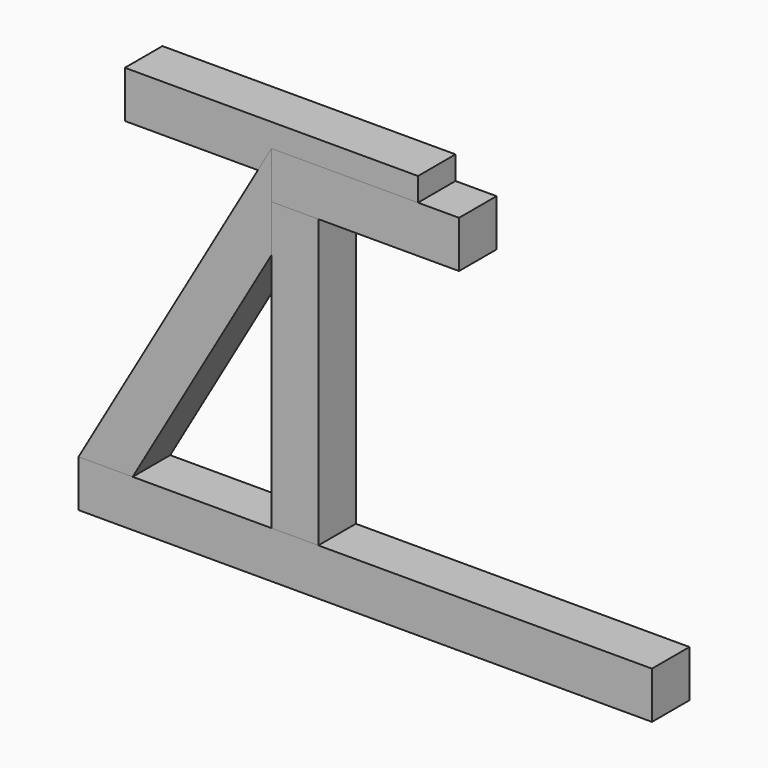
from build123d import *

# Parameters (mm, degrees)
F0_W     = 500
F0_H     = 80
F1_DEPTH = 80
F3_DEPTH = 80
F4_DEPTH = 80
F5_DEPTH = 80
F6_DEPTH = 80


with BuildPart() as f1:
    # F0 (on Front) → F1 (new body)
    with BuildSketch(Plane.XZ):
        Rectangle(F0_W, F0_H)
    extrude(amount=F1_DEPTH)


with BuildPart() as f3:
    # F2 (on Front) → F3 (new body)
    with BuildSketch(Plane.XZ):
        Polygon((-236.71361, -570), (-329.089653, -570), (-329.089653, -650), (649.089653, -650), (649.089653, -570), (556.71361, -570), (320, -570), (240, -570), (80, -570), (0, -570), align=None)
    extrude(amount=F3_DEPTH)


with BuildPart() as f4:
    # F2 (on Front) → F4 (new body)
    with BuildSketch(Plane.XZ):
        Polygon((320, 0), (0, 0), (0, -80), (80, -80), (240, -80), (320, -80), align=None)
    extrude(amount=F4_DEPTH)


with BuildPart() as f5:
    # F2 (on Front) → F5 (new body)
    with BuildSketch(Plane.XZ):
        Polygon((80, -80), (0, -80), (0, -160), (0, -570), (80, -570), align=None)
    extrude(amount=F5_DEPTH)


with BuildPart() as f6:
    # F2 (on Front) → F6 (new body)
    with BuildSketch(Plane.XZ):
        Polygon((0, -80), (0, 0), (-329.089653, -570), (-236.71361, -570), (0, -160), align=None)
    extrude(amount=F6_DEPTH)


solid = Compound([f1.part, f3.part, f4.part, f5.part, f6.part])
